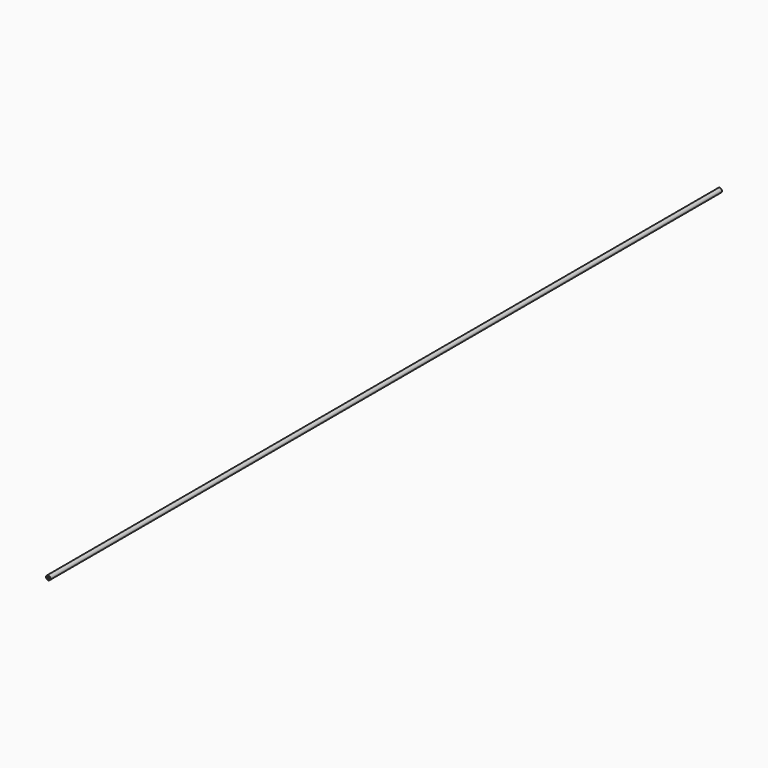
from build123d import *

# Parameters (mm, degrees)
F0_R     = 0.75
F0_R_2   = 0.20193
F1_DEPTH = 290


with BuildPart() as f1:
    # F0 (on Front) → F1 (new body)
    with BuildSketch(Plane.XZ):
        Circle(F0_R)
        with Locations((-0.32673, -0.237383)):
            Circle(F0_R_2, mode=Mode.SUBTRACT)
        with Locations((0.1248, -0.384094)):
            Circle(F0_R_2, mode=Mode.SUBTRACT)
        with Locations((-0.32673, 0.237383)):
            Circle(F0_R_2, mode=Mode.SUBTRACT)
        with Locations((0.40386, 0)):
            Circle(F0_R_2, mode=Mode.SUBTRACT)
        with Locations((0.1248, 0.384094)):
            Circle(F0_R_2, mode=Mode.SUBTRACT)
    extrude(amount=F1_DEPTH)


solid = f1.part
